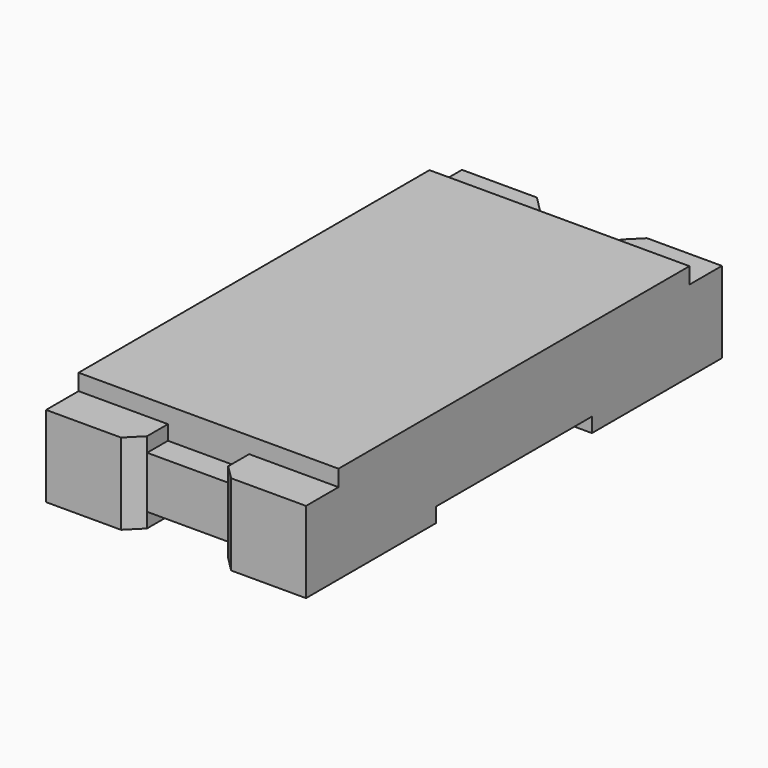
from build123d import *

# Parameters (mm, degrees)
SKETCH001_W  = 2.7
SKETCH001_H  = 0.19
PAD001_DEPTH = 1.6
SKETCH_W     = 3.02
SKETCH_H     = 0.32
PAD_DEPTH    = 1.6
PAD002_DEPTH = 0.55
CHAMFER_SIZE = 0.089


with BuildPart() as body001:
    # Sketch001 → Pad001 (new body)
    with BuildSketch(Plane.YZ):
        with Locations((0, 0.505)):
            Rectangle(SKETCH001_W, SKETCH001_H)
    extrude(amount=PAD001_DEPTH)


with BuildPart() as fusion002:
    # Sketch → Pad (new body)
    with BuildSketch(Plane.YZ):
        with Locations((0, 0.25)):
            Rectangle(SKETCH_W, SKETCH_H)
    extrude(amount=PAD_DEPTH)

    # Fusion002: union Body001
    add(body001.part)


with BuildPart() as body002:
    # Sketch002 → Pad002 (new body)
    with BuildSketch(Plane.YZ):
        Polygon((-1.35, 0.41), (-1.51, 0.41), (-1.51, 0.09), (-0.6, 0.09), (-0.6, 0), (-1.6, 0), (-1.6, 0.5), (-1.35, 0.5), align=None)
    extrude(amount=PAD002_DEPTH)

    # Chamfer
    chamfer_edges = [body002.edges().sort_by_distance(p)[0] for p in [
        (0.55, -1.6, 0.25),
    ]]
    chamfer(chamfer_edges, length=CHAMFER_SIZE)


with BuildPart() as mirror_of_body002:
    # mirror: instance of Body002
    add(body002.part.mirror(Plane(origin=(0.8, -1.325, 0.25), x_dir=(0, -1, 0), z_dir=(1, 0, 0))))


with BuildPart() as fusion:
    # Fusion base: copy of Body002
    add(body002.part)

    # Fusion: union Mirror of Body002
    add(mirror_of_body002.part)


with BuildPart() as mirror_of_fusion:
    # mirror001: instance of Fusion
    add(fusion.part.mirror(Plane(origin=(-1.31, 0, 0), x_dir=(1, 0, 0), z_dir=(0, 1, 0))))


with BuildPart() as obj1:
    # Fusion001 base: copy of Fusion
    add(fusion.part)

    # Fusion001: union Mirror of Fusion
    add(mirror_of_fusion.part)

    # Fusion003: union Fusion002
    add(fusion002.part)


solid = obj1.part
